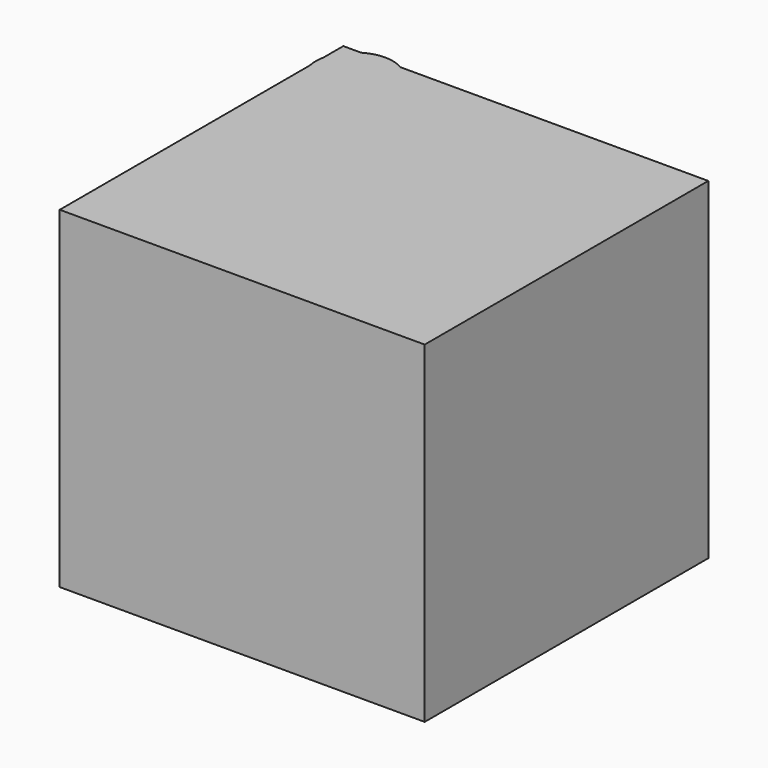
from build123d import *

# Parameters (mm, degrees)
F1_DEPTH = 32


with BuildPart() as f1:
    # F0 (on Top) → F1 (new body)
    with BuildSketch(Plane.XY):
        with BuildLine():
            Line((0, 30.1567251716), (0, 0))
            Line((0, 0), (35.1581014693, 0))
            Line((35.1581014693, 0), (35.1581014693, 34.1453179717))
            Line((35.1581014693, 34.1453179717), (5.5145962808, 34.1453179717))
            ThreePointArc((5.5145962808, 34.1453179717), (6.8391912962, 32.7926703645), (7.3227977475, 30.9622790664))
            ThreePointArc((7.3227977475, 30.9622790664), (4.0222975699, 27.2787928126), (0, 30.1567251716))
        make_face()
        with BuildLine():
            ThreePointArc((0, 31.7678329612), (-0.0886160044, 30.9622790664), (0, 30.1567251716))
            Line((0, 30.1567251716), (0, 31.7678329612))
        make_face()
        with BuildLine():
            Line((0, 31.7678329612), (0, 30.1567251716))
            ThreePointArc((0, 30.1567251716), (4.0222975699, 27.2787928126), (7.3227977475, 30.9622790664))
            ThreePointArc((7.3227977475, 30.9622790664), (6.8391912962, 32.7926703645), (5.5145962808, 34.1453179717))
            Line((5.5145962808, 34.1453179717), (1.7195854623, 34.1453179717))
            ThreePointArc((1.7195854623, 34.1453179717), (0.6144583967, 33.1340206882), (0, 31.7678329612))
        make_face()
        with BuildLine():
            Line((0, 34.1453179717), (0, 31.7678329612))
            ThreePointArc((0, 31.7678329612), (0.6144583967, 33.1340206882), (1.7195854623, 34.1453179717))
            Line((1.7195854623, 34.1453179717), (0, 34.1453179717))
        make_face()
        with BuildLine():
            Line((1.7195854623, 34.1453179717), (5.5145962808, 34.1453179717))
            ThreePointArc((5.5145962808, 34.1453179717), (3.6170908716, 34.6679859424), (1.7195854623, 34.1453179717))
        make_face()
    extrude(amount=F1_DEPTH)


solid = f1.part
